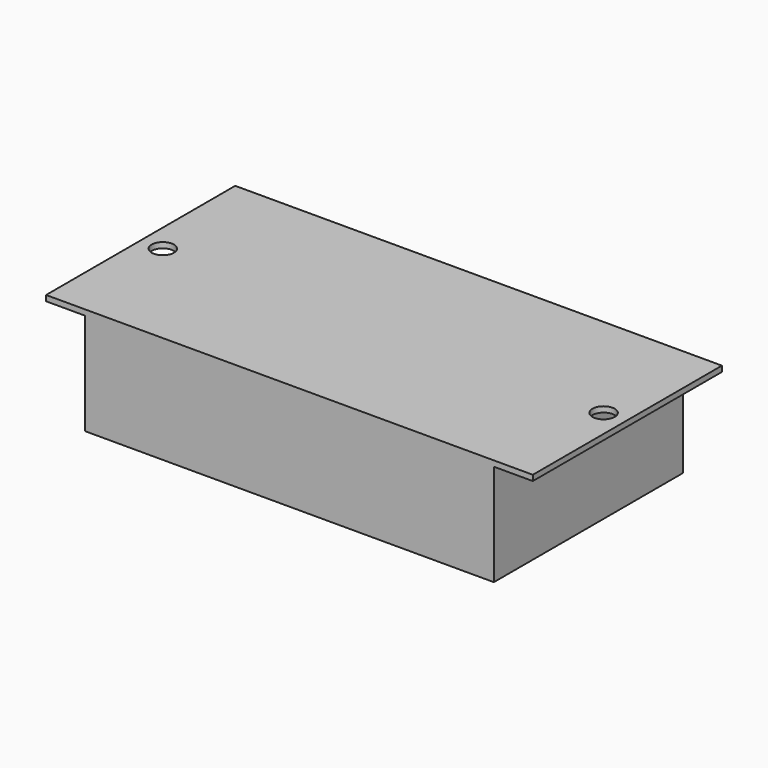
from build123d import *

# Parameters (mm, degrees)
F1_DEPTH = 85
F2_R     = 4
F3_DEPTH = 25


with BuildPart() as f1:
    # F0 (on Front) → F1 (new body)
    with BuildSketch(Plane.XZ):
        Polygon((67.613126, -11.305504), (-79.386874, -11.305504), (-93.386874, -11.305504), (-93.386874, -13.305504), (-79.386874, -13.305504), (-79.386874, -49.860391), (67.613126, -49.860391), (67.613126, -13.305504), (81.613126, -13.305504), (81.613126, -11.305504), align=None)
    extrude(amount=F1_DEPTH)

    # F2 (on face) → F3 (cut)
    with BuildSketch(Plane.XY.offset(-11.305504)):
        with Locations((-85.386874, -42.530299)):
            Circle(F2_R)
        with Locations((73.613126, -43.162795)):
            Circle(F2_R)
    extrude(amount=-F3_DEPTH, mode=Mode.SUBTRACT)


solid = f1.part
